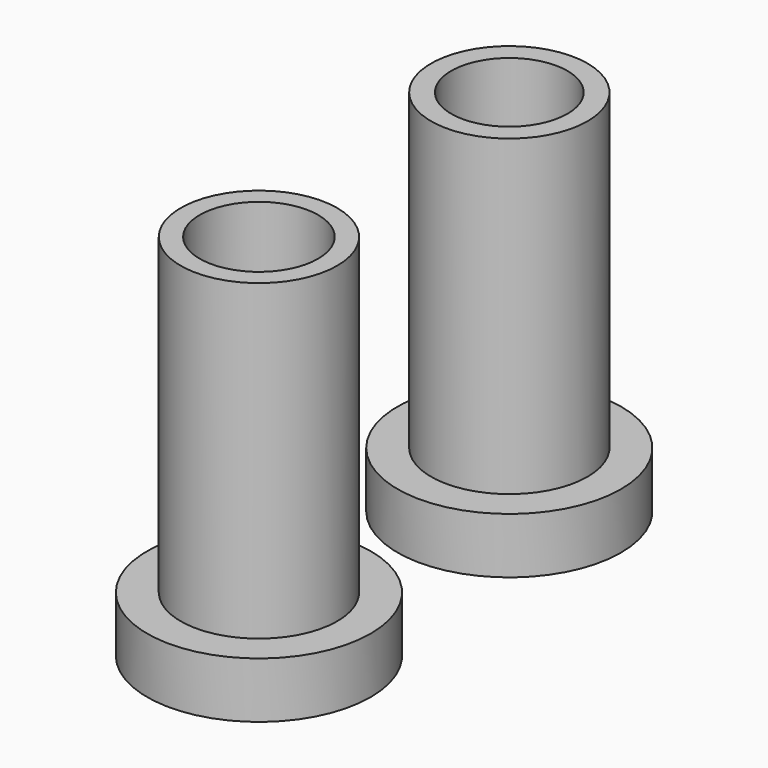
from build123d import *

# Parameters (mm, degrees)
CYLINDER118_R     = 1.5
CYLINDER118_DEPTH = 11
CYLINDER119_R     = 5.2
CYLINDER119_DEPTH = 46
CYLINDER116_R     = 1.5
CYLINDER116_DEPTH = 11
BOX020_W          = 1
BOX020_H          = 1
BOX020_DEPTH      = 1
CYLINDER117_R     = 10
CYLINDER117_DEPTH = 5
CYLINDER120_R     = 7
CYLINDER120_DEPTH = 33
CYLINDER114_R     = 1.5
CYLINDER114_DEPTH = 11
CYLINDER112_R     = 5.3
CYLINDER112_DEPTH = 46
CYLINDER113_R     = 1.5
CYLINDER113_DEPTH = 11
BOX019_W          = 1
BOX019_H          = 1
BOX019_DEPTH      = 1
CYLINDER111_R     = 10
CYLINDER111_DEPTH = 5
CYLINDER115_R     = 7
CYLINDER115_DEPTH = 33


with BuildPart() as obj1:
    # Cylinder118 → Cylinder118 (new body)
    with BuildSketch(Plane(origin=(99.69, 175.69, -10), x_dir=(1, 0, 0), z_dir=(0, 0, 1))):
        Circle(CYLINDER118_R)
    extrude(amount=CYLINDER118_DEPTH)


with BuildPart() as obj2:
    # Cylinder119 → Cylinder119 (new body)
    with BuildSketch(Plane(origin=(86.69, 175.69, -14), x_dir=(1, 0, 0), z_dir=(0, 0, 1))):
        Circle(CYLINDER119_R)
    extrude(amount=CYLINDER119_DEPTH)


with BuildPart() as fusion050:
    # Cylinder116 → Cylinder116 (new body)
    with BuildSketch(Plane(origin=(73.69, 175.69, -10), x_dir=(1, 0, 0), z_dir=(0, 0, 1))):
        Circle(CYLINDER116_R)
    extrude(amount=CYLINDER116_DEPTH)

    # Fusion050: union obj1, obj2
    add(obj1.part)
    add(obj2.part)


with BuildPart() as obj3:
    # Box020 → Box020 (new body)
    with BuildSketch(Plane(origin=(77.69, 174.69, -5), x_dir=(1, 0, 0), z_dir=(0, 0, 1))):
        with Locations((0.5, 0.5)):
            Rectangle(BOX020_W, BOX020_H)
    extrude(amount=BOX020_DEPTH)


with BuildPart() as obj4:
    # Cylinder117 → Cylinder117 (new body)
    with BuildSketch(Plane(origin=(86.69, 175.69, -5), x_dir=(1, 0, 0), z_dir=(0, 0, 1))):
        Circle(CYLINDER117_R)
    extrude(amount=CYLINDER117_DEPTH)


with BuildPart() as obj5:
    # Cylinder120 → Cylinder120 (new body)
    with BuildSketch(Plane(origin=(86.69, 175.69, -5), x_dir=(1, 0, 0), z_dir=(0, 0, 1))):
        Circle(CYLINDER120_R)
    extrude(amount=CYLINDER120_DEPTH)

    # Fusion049: union obj3, obj4
    add(obj3.part)
    add(obj4.part)

    # Cut015: cut Fusion050
    add(fusion050.part, mode=Mode.SUBTRACT)


with BuildPart() as obj5_1:
    # Cut015 placement: moved
    add(obj5.part.moved(Location((-86.69, -161.69, -28))))


with BuildPart() as obj6:
    # Cylinder114 → Cylinder114 (new body)
    with BuildSketch(Plane(origin=(99.69, 175.69, -10), x_dir=(1, 0, 0), z_dir=(0, 0, 1))):
        Circle(CYLINDER114_R)
    extrude(amount=CYLINDER114_DEPTH)


with BuildPart() as obj7:
    # Cylinder112 → Cylinder112 (new body)
    with BuildSketch(Plane(origin=(86.69, 175.69, -14), x_dir=(1, 0, 0), z_dir=(0, 0, 1))):
        Circle(CYLINDER112_R)
    extrude(amount=CYLINDER112_DEPTH)


with BuildPart() as fusion048:
    # Cylinder113 → Cylinder113 (new body)
    with BuildSketch(Plane(origin=(73.69, 175.69, -10), x_dir=(1, 0, 0), z_dir=(0, 0, 1))):
        Circle(CYLINDER113_R)
    extrude(amount=CYLINDER113_DEPTH)

    # Fusion048: union obj6, obj7
    add(obj6.part)
    add(obj7.part)


with BuildPart() as obj8:
    # Box019 → Box019 (new body)
    with BuildSketch(Plane(origin=(77.69, 174.69, -5), x_dir=(1, 0, 0), z_dir=(0, 0, 1))):
        with Locations((0.5, 0.5)):
            Rectangle(BOX019_W, BOX019_H)
    extrude(amount=BOX019_DEPTH)


with BuildPart() as obj9:
    # Cylinder111 → Cylinder111 (new body)
    with BuildSketch(Plane(origin=(86.69, 175.69, -5), x_dir=(1, 0, 0), z_dir=(0, 0, 1))):
        Circle(CYLINDER111_R)
    extrude(amount=CYLINDER111_DEPTH)


with BuildPart() as base_fusion:
    # Cylinder115 → Cylinder115 (new body)
    with BuildSketch(Plane(origin=(86.69, 175.69, -5), x_dir=(1, 0, 0), z_dir=(0, 0, 1))):
        Circle(CYLINDER115_R)
    extrude(amount=CYLINDER115_DEPTH)

    # Fusion047: union obj8, obj9
    add(obj8.part)
    add(obj9.part)

    # Cut014: cut Fusion048
    add(fusion048.part, mode=Mode.SUBTRACT)


with BuildPart() as base_fusion_1:
    # Cut014 placement: moved
    add(base_fusion.part.moved(Location((-86.69, -189.69, -28))))

    # Fusion: union obj5
    add(obj5_1.part)


solid = base_fusion_1.part
